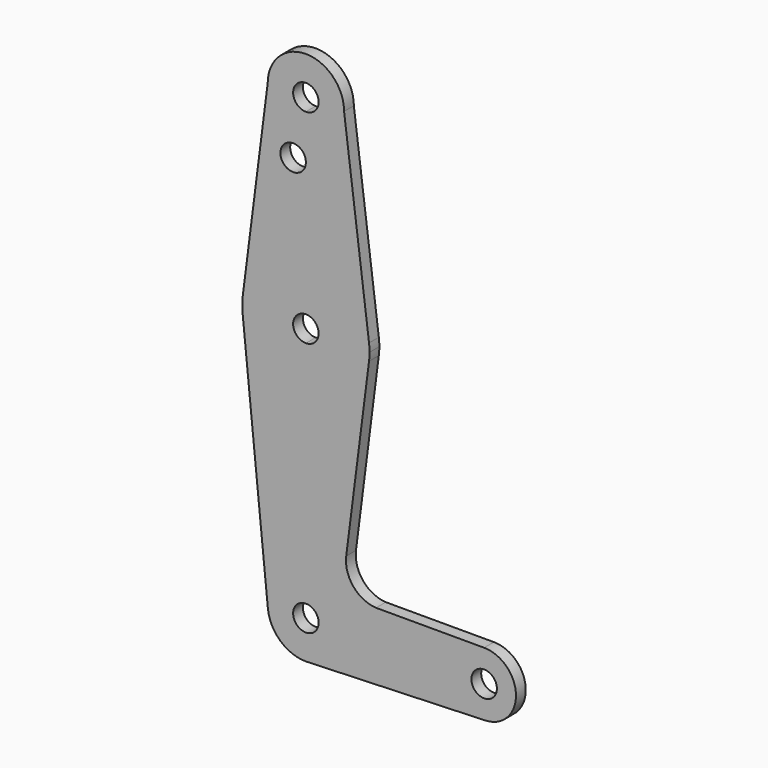
from build123d import *

# Parameters (mm, degrees)
F0_R     = 3.175
F1_DEPTH = 3.048


with BuildPart() as f1:
    # F0 (on Front) → F1 (new body)
    with BuildSketch(Plane.XZ):
        with BuildLine():
            ThreePointArc((3.175, 0), (-2.2450640303, -2.2450640303), (0, 3.175))
            Line((0, 3.175), (0, 9.525))
            ThreePointArc((0, 9.525), (-7.0636414665, 6.3898821767), (-9.4773410414, -0.9516468803))
            ThreePointArc((-9.4773410414, -0.9516468803), (-6.3898821767, -7.0636414665), (0, -9.525))
            Line((0, -9.525), (0.6773435479, -9.500885786))
            ThreePointArc((0.6773435479, -9.500885786), (6.9705567315, -6.4912990883), (9.525, 0))
            Line((9.525, 0), (3.175, 0))
        make_face()
        with BuildLine():
            ThreePointArc((-9.4773410414, -0.9516468803), (-7.0636414665, 6.3898821767), (0, 9.525))
            Line((0, 9.525), (0, 47.625))
            ThreePointArc((0, 47.625), (-10.4912828548, 51.5857812233), (-15.7474569047, 61.4917106696))
            Line((-15.7474569047, 61.4917106696), (-9.4773410414, -0.9516468803))
        make_face()
        with BuildLine():
            Line((0, 47.625), (0, 9.525))
            ThreePointArc((0, 9.525), (6.7351920908, 6.7351920908), (9.525, 0))
            Line((9.525, 0), (36.5125, 0))
            ThreePointArc((36.5125, 0), (38.8373399243, 5.6126600757), (44.45, 7.9375))
            Line((44.45, 7.9375), (17.4833607822, 7.9375))
            ThreePointArc((17.4833607822, 7.9375), (11.8278731655, 10.7955804225), (10.058088757, 16.8800711187))
            Line((10.058088757, 16.8800711187), (15.7474569047, 61.4917106696))
            ThreePointArc((15.7474569047, 61.4917106696), (10.4912828548, 51.5857812233), (0, 47.625))
        make_face()
        with BuildLine():
            Line((36.5125, 0), (9.525, 0))
            ThreePointArc((9.525, 0), (6.9705567315, -6.4912990883), (0.6773435479, -9.500885786))
            Line((0.6773435479, -9.500885786), (44.7324052746, -7.9324746146))
            ThreePointArc((44.7324052746, -7.9324746146), (38.9380895153, -5.7116327839), (36.5125, 0))
        make_face()
        with BuildLine():
            ThreePointArc((-15.7474569047, 61.4917106696), (-10.4912828548, 51.5857812233), (0, 47.625))
            Line((0, 47.625), (0, 60.325))
            ThreePointArc((0, 60.325), (-3.175, 63.5), (0, 66.675))
            Line((0, 66.675), (0, 79.375))
            ThreePointArc((0, 79.375), (-10.4912828548, 75.4142187767), (-15.7474569047, 65.5082893304))
            ThreePointArc((-15.7474569047, 65.5082893304), (-15.875, 63.5), (-15.7474569047, 61.4917106696))
        make_face()
        with BuildLine():
            Line((0, 60.325), (0, 47.625))
            ThreePointArc((0, 47.625), (10.4912828548, 51.5857812233), (15.7474569047, 61.4917106696))
            ThreePointArc((15.7474569047, 61.4917106696), (15.8430821396, 62.4938323604), (15.875, 63.5))
            ThreePointArc((15.875, 63.5), (15.8430821396, 64.5061676396), (15.7474569047, 65.5082893304))
            ThreePointArc((15.7474569047, 65.5082893304), (10.4912828548, 75.4142187767), (0, 79.375))
            Line((0, 79.375), (0, 66.675))
            ThreePointArc((0, 66.675), (2.2450640303, 65.7450640303), (3.175, 63.5))
            ThreePointArc((3.175, 63.5), (2.2450640303, 61.2549359697), (0, 60.325))
        make_face()
        with BuildLine():
            ThreePointArc((44.45, 7.9375), (38.8373399243, 5.6126600757), (36.5125, 0))
            ThreePointArc((36.5125, 0), (38.9380895153, -5.7116327839), (44.7324052746, -7.9324746146))
            ThreePointArc((44.7324052746, -7.9324746146), (50.1616327839, -5.5119104847), (52.3875, 0))
            ThreePointArc((52.3875, 0), (50.0626600757, 5.6126600757), (44.45, 7.9375))
        make_face()
        with BuildLine():
            ThreePointArc((47.625, 0), (44.45, -3.175), (41.275, 0))
            ThreePointArc((41.275, 0), (44.45, 3.175), (47.625, 0))
        make_face(mode=Mode.SUBTRACT)
        with BuildLine():
            ThreePointArc((0, -9.525), (0.3388863295, -9.5189695375), (0.6773435479, -9.500885786))
            Line((0.6773435479, -9.500885786), (0, -9.525))
        make_face()
        with BuildLine():
            Line((-9.525, 114.3), (-15.7474569047, 65.5082893304))
            ThreePointArc((-15.7474569047, 65.5082893304), (-10.4912828548, 75.4142187767), (0, 79.375))
            Line((0, 79.375), (0, 100.0252))
            Line((0, 100.0252), (0, 104.775))
            ThreePointArc((0, 104.775), (-6.7351920908, 107.5648079092), (-9.525, 114.3))
        make_face()
        with Locations((-3.175, 100.0252)):
            Circle(F0_R, mode=Mode.SUBTRACT)
        with BuildLine():
            Line((0, 100.0252), (0, 79.375))
            ThreePointArc((0, 79.375), (10.4912828548, 75.4142187767), (15.7474569047, 65.5082893304))
            Line((15.7474569047, 65.5082893304), (9.525, 114.3))
            ThreePointArc((9.525, 114.3), (6.7351920908, 107.5648079092), (0, 104.775))
            Line((0, 104.775), (0, 100.0252))
        make_face()
        with BuildLine():
            ThreePointArc((9.525, 114.3), (0, 123.825), (-9.525, 114.3))
            ThreePointArc((-9.525, 114.3), (-6.7351920908, 107.5648079092), (0, 104.775))
            ThreePointArc((0, 104.775), (6.7351920908, 107.5648079092), (9.525, 114.3))
        make_face()
        with BuildLine():
            ThreePointArc((3.175, 114.3), (2.2450640303, 112.0549359697), (0, 111.125))
            ThreePointArc((0, 111.125), (-2.2450640303, 116.5450640303), (3.175, 114.3))
        make_face(mode=Mode.SUBTRACT)
        with BuildLine():
            Line((0, 9.525), (0, 3.175))
            ThreePointArc((0, 3.175), (2.2450640303, 2.2450640303), (3.175, 0))
            Line((3.175, 0), (9.525, 0))
            ThreePointArc((9.525, 0), (6.7351920908, 6.7351920908), (0, 9.525))
        make_face()
    extrude(amount=F1_DEPTH)


solid = f1.part
